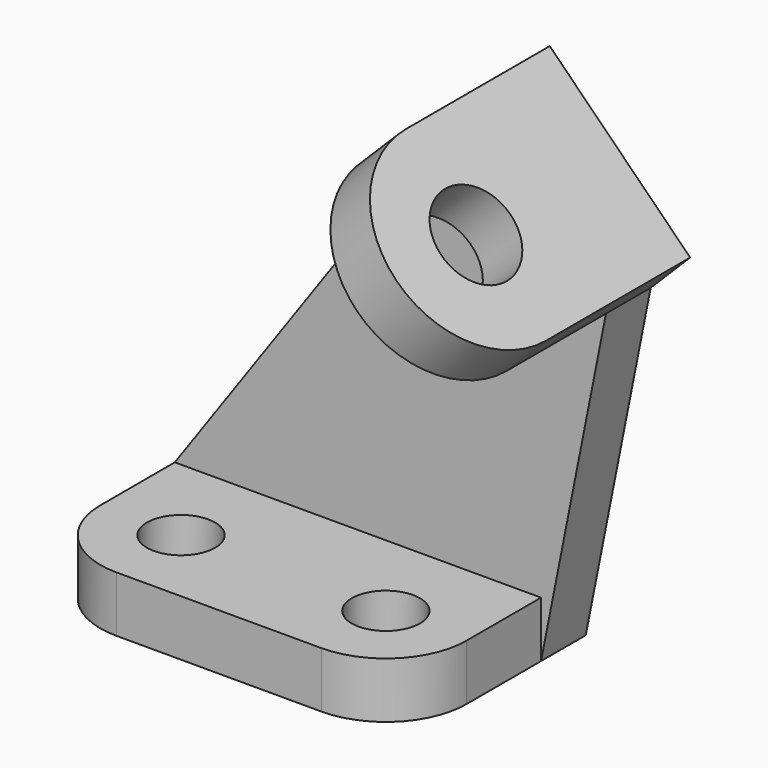
from build123d import *

# Parameters (mm, degrees)
F0_R     = 5.5
F1_DEPTH = 9
F3_DEPTH = 9
F4_R     = 7
F5_DEPTH = 9


with BuildPart() as f1:
    # F0 (on Top) → F1 (new body)
    with BuildSketch(Plane.XY):
        with BuildLine():
            Line((0, -15), (0, 0))
            Line((0, 0), (-59, 0))
            Line((-59, 0), (-59, -15))
            ThreePointArc((-59, -15), (-55.192388, -24.192388), (-46, -28))
            Line((-46, -28), (-13, -28))
            ThreePointArc((-13, -28), (-3.807612, -24.192388), (0, -15))
        make_face()
        with Locations((-46, -15)):
            Circle(F0_R, mode=Mode.SUBTRACT)
        with Locations((-13, -15)):
            Circle(F0_R, mode=Mode.SUBTRACT)
    extrude(amount=F1_DEPTH)

    # F2 (on face) → F3 (join)
    with BuildSketch(Plane(origin=(0, 0, 0), x_dir=(-1, 0, 0), z_dir=(0, 1, 0))):
        Polygon((59, 0), (59, 9), (12.163848, 75.313708), (-10.463569, 52.686292), (0, 0), align=None)
    extrude(amount=F3_DEPTH)

    # F4 (on face) → F5 (join)
    with BuildSketch(Plane(origin=(31.57493, 0, 31.57493), x_dir=(0.707107, 0, -0.707107), z_dir=(0.707107, 0, 0.707107))):
        with BuildLine():
            Line((-29.855973, 9), (-61.855973, 9))
            Line((-61.855973, 9), (-61.855973, -20))
            ThreePointArc((-61.855973, -20), (-45.855973, -36), (-29.855973, -20))
            Line((-29.855973, -20), (-29.855973, 9))
        make_face()
        with Locations((-45.855973, -20)):
            Circle(F4_R, mode=Mode.SUBTRACT)
    extrude(amount=F5_DEPTH)


solid = f1.part
